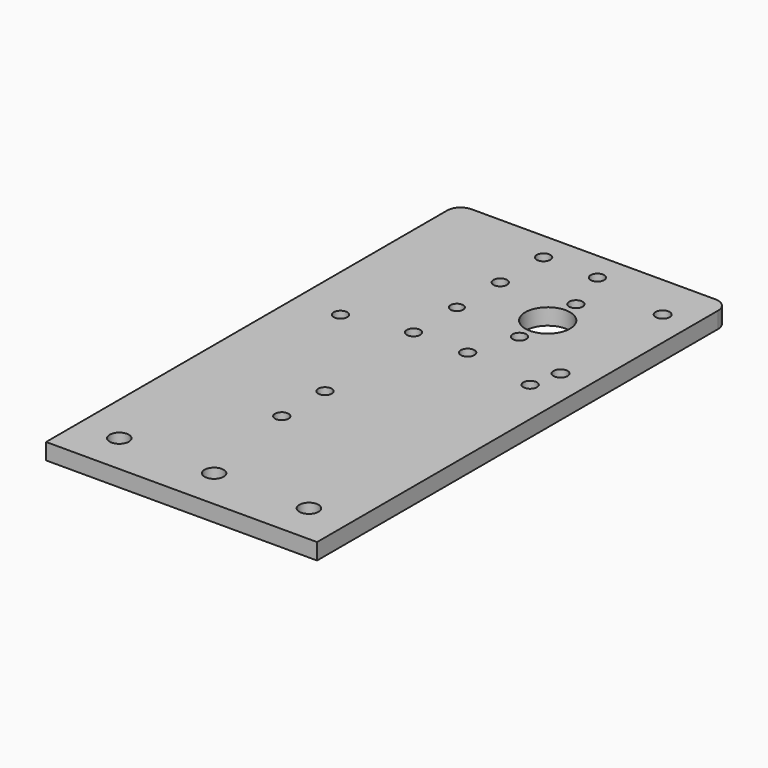
from build123d import *

# Parameters (mm, degrees)
SKETCH_1_W      = 100
SKETCH_1_H      = 190
SKETCH_1_R      = 3.525
SKETCH_1_R_2    = 3.535
SKETCH_1_R_3    = 2.5
PAD_DEPTH       = 6
SKETCH_R        = 2.5
SKETCH_R_2      = 2.322826
POCKET_DEPTH    = 6
SKETCH002_R     = 2.5
POCKET001_DEPTH = 6
SKETCH003_R     = 5
POCKET002_DEPTH = 6
SKETCH004_R     = 2.6
POCKET003_DEPTH = 6
FILLET_R        = 5
SKETCH005_R     = 8.25
POCKET004_DEPTH = 6
SKETCH006_R     = 2.5
POCKET005_DEPTH = 6


with BuildPart() as part:
    # Sketch_1 → Pad (new body)
    with BuildSketch(Plane.XY):
        with Locations((50, 95)):
            Rectangle(SKETCH_1_W, SKETCH_1_H)
        with Locations((15, 15)):
            Circle(SKETCH_1_R, mode=Mode.SUBTRACT)
        with Locations((50, 15)):
            Circle(SKETCH_1_R, mode=Mode.SUBTRACT)
        with Locations((85, 15)):
            Circle(SKETCH_1_R_2, mode=Mode.SUBTRACT)
        with Locations((16.629946, 115)):
            Circle(SKETCH_1_R_3, mode=Mode.SUBTRACT)
        with Locations((86.629946, 115)):
            Circle(SKETCH_1_R_3, mode=Mode.SUBTRACT)
    extrude(amount=PAD_DEPTH)

    # Sketch (on Face11 of Pad) → Pocket (cut)
    with BuildSketch(Plane.XY.offset(6)):
        with Locations((39.978905, 119.513016)):
            Circle(SKETCH_R)
        with Locations((60.032207, 119.416237)):
            Circle(SKETCH_R)
        with Locations((39.978905, 139.513016)):
            Circle(SKETCH_R_2)
        with Locations((39.978905, 159.513016)):
            Circle(SKETCH_R)
        with Locations((39.978905, 179.513016)):
            Circle(SKETCH_R)
        with Locations((59.978905, 179.358719)):
            Circle(SKETCH_R)
    extrude(amount=-POCKET_DEPTH, mode=Mode.SUBTRACT)

    # Sketch002 (on Face4 of Pocket) → Pocket001 (cut)
    with BuildSketch(Plane(origin=(0, 0, 0), x_dir=(1, 0, 0), z_dir=(0, 0, -1))):
        with Locations((42.987591, -54.983551)):
            Circle(SKETCH002_R)
        with Locations((42.978264, -74.953857)):
            Circle(SKETCH002_R)
    extrude(amount=-POCKET001_DEPTH, mode=Mode.SUBTRACT)

    # Sketch003 (on Face5 of Pocket001) → Pocket002 (cut)
    with BuildSketch(Plane.XY.offset(6)):
        with Locations((65.499825, 149.501081)):
            Circle(SKETCH003_R)
    extrude(amount=-POCKET002_DEPTH, mode=Mode.SUBTRACT)

    # Sketch004 (on Face5 of Pocket002) → Pocket003 (cut)
    with BuildSketch(Plane.XY.offset(6)):
        with Locations((89.073647, 173.068237)):
            Circle(SKETCH004_R)
        with Locations((89.069992, 125.98822)):
            Circle(SKETCH004_R)
    extrude(amount=-POCKET003_DEPTH, mode=Mode.SUBTRACT)

    # Fillet
    fillet_edges = [part.edges().sort_by_distance(p)[0] for p in [
        (0, 190, 3),
        (100, 190, 3),
    ]]
    fillet(fillet_edges, radius=FILLET_R)

    # Sketch005 (on Face5 of Fillet) → Pocket004 (cut)
    with BuildSketch(Plane.XY.offset(6)):
        with Locations((65.499825, 149.501081)):
            Circle(SKETCH005_R)
    extrude(amount=-POCKET004_DEPTH, mode=Mode.SUBTRACT)

    # Sketch006 (on Face5 of Pocket004) → Pocket005 (cut)
    with BuildSketch(Plane.XY.offset(6)):
        with Locations((65.499825, 162.501081)):
            Circle(SKETCH006_R)
        with Locations((65.499825, 136.501081)):
            Circle(SKETCH006_R)
    extrude(amount=-POCKET005_DEPTH, mode=Mode.SUBTRACT)


solid = part.part
